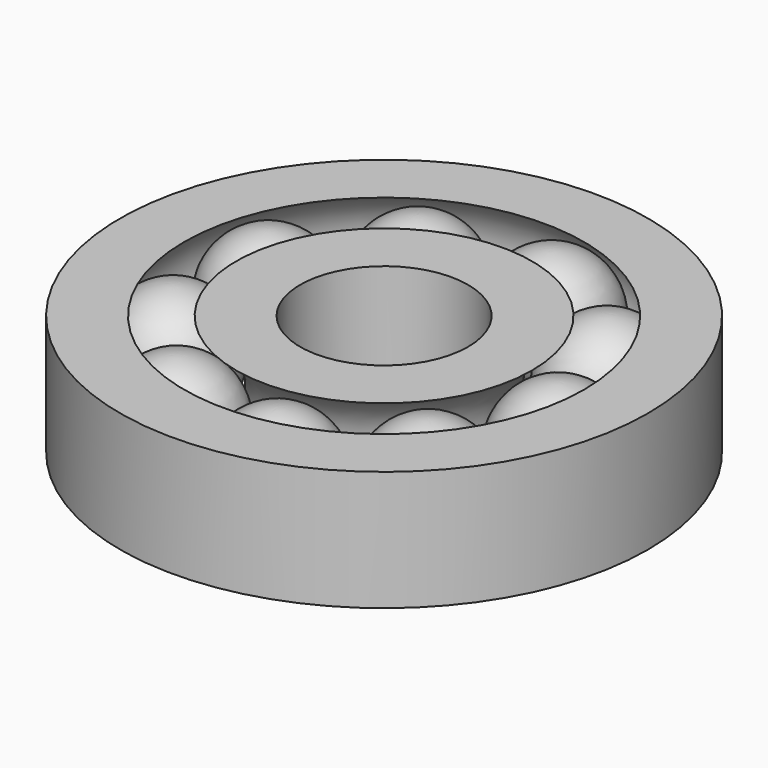
from build123d import *

# Parameters (mm, degrees)
F3_COUNT = 9


with BuildPart() as f1:
    # F0 (on Front) → F1 (revolve)
    with BuildSketch(Plane.XZ):
        with BuildLine():
            Line((6.165738, 2.5), (3.5, 2.5))
            Line((3.5, 2.5), (3.5, -2.5))
            Line((3.5, -2.5), (6.165738, -2.5))
            ThreePointArc((6.165738, -2.5), (4.525, 0), (6.165738, 2.5))
        make_face()
        with BuildLine():
            Line((11, -2.5), (11, 2.5))
            Line((11, 2.5), (8.334262, 2.5))
            ThreePointArc((8.334262, 2.5), (9.975, 0), (8.334262, -2.5))
            Line((8.334262, -2.5), (11, -2.5))
        make_face()
    revolve(axis=Axis((0, 0, 1.25), (0, 0, 1)))


with BuildPart() as f2:
    # F0 (on Front) → F2 (revolve)
    with BuildSketch(Plane.XZ):
        with BuildLine():
            ThreePointArc((7.25, -2.475), (9.000089, -1.750089), (9.725, 0))
            ThreePointArc((9.725, 0), (9.000089, 1.750089), (7.25, 2.475))
            Line((7.25, 2.475), (7.25, 0))
            Line((7.25, 0), (7.25, -2.475))
        make_face()
    revolve(axis=Axis((7.25, 0, 1.2375), (0, 0, 1)))


with BuildPart() as f3_1:
    # F3: instance of F2
    add(f2.part.rotate(Axis((0, 0, 2.5), (0, 0, -1)), 1 * 360 / F3_COUNT))


with BuildPart() as f3_2:
    # F3: instance of F2
    add(f2.part.rotate(Axis((0, 0, 2.5), (0, 0, -1)), 2 * 360 / F3_COUNT))


with BuildPart() as f3_3:
    # F3: instance of F2
    add(f2.part.rotate(Axis((0, 0, 2.5), (0, 0, -1)), 3 * 360 / F3_COUNT))


with BuildPart() as f3_4:
    # F3: instance of F2
    add(f2.part.rotate(Axis((0, 0, 2.5), (0, 0, -1)), 4 * 360 / F3_COUNT))


with BuildPart() as f3_5:
    # F3: instance of F2
    add(f2.part.rotate(Axis((0, 0, 2.5), (0, 0, -1)), 5 * 360 / F3_COUNT))


with BuildPart() as f3_6:
    # F3: instance of F2
    add(f2.part.rotate(Axis((0, 0, 2.5), (0, 0, -1)), 6 * 360 / F3_COUNT))


with BuildPart() as f3_7:
    # F3: instance of F2
    add(f2.part.rotate(Axis((0, 0, 2.5), (0, 0, -1)), 7 * 360 / F3_COUNT))


with BuildPart() as f3_8:
    # F3: instance of F2
    add(f2.part.rotate(Axis((0, 0, 2.5), (0, 0, -1)), 8 * 360 / F3_COUNT))


solid = Compound([f1.part, f2.part, f3_1.part, f3_2.part, f3_3.part, f3_4.part, f3_5.part, f3_6.part, f3_7.part, f3_8.part])
